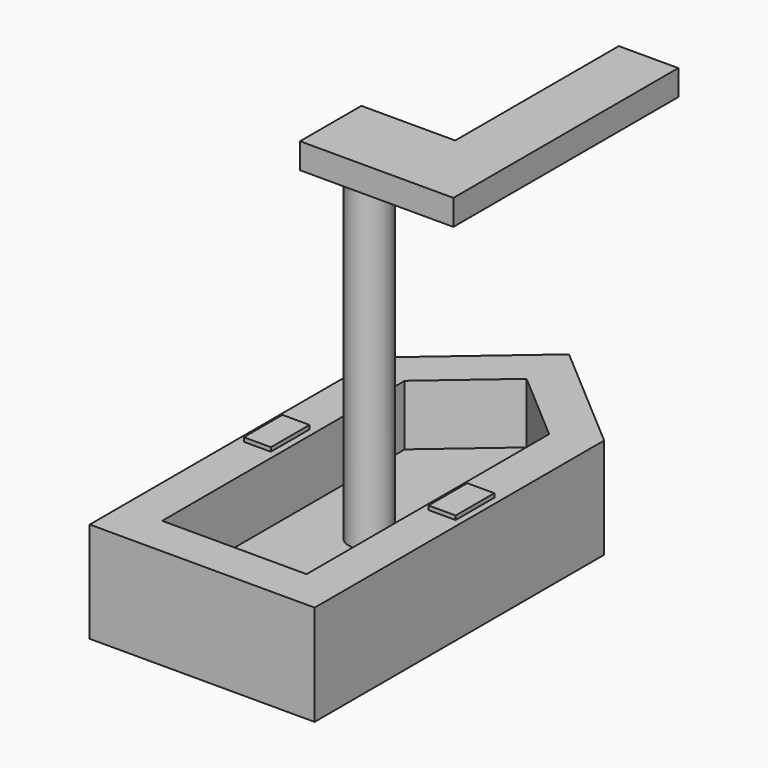
from build123d import *

# Parameters (mm, degrees)
F0_W      = 55.88
F0_H      = 76.2
F0_H_2    = 13.7203991207
F1_DEPTH  = 12.5
F2_T      = -10
F3_R      = 5
F4_DEPTH  = 81.28
F5_W      = 6.731
F5_H      = 12
F6_DEPTH  = 1
F7_W      = 19.05
F7_H      = 19.05
F8_DEPTH  = 6.35
F9_W      = 19.05
F9_H      = 6.3499984837
F10_DEPTH = 19.05
F11_W     = 14.7812826264
F11_H     = 6.35
F12_DEPTH = 50.8


with BuildPart() as f1:
    # F0 (on Top) → F1 (new body, symmetric)
    with BuildSketch(Plane.XY):
        Polygon((0, 62.1132660843), (-27.94, 38.1), (27.94, 38.1), align=None)
        Rectangle(F0_W, F0_H)
        with Locations((0, -44.9601995604)):
            Rectangle(F0_W, F0_H_2)
    extrude(amount=F1_DEPTH, both=True)

    # F2
    f2_openings = [f1.faces().sort_by_distance(p)[0] for p in [
        (0, -0.62116, 12.5),
    ]]
    offset(amount=F2_T, openings=f2_openings)

    # F3 (on face) → F4 (join)
    with BuildSketch(Plane.XY.offset(-2.5)):
        Circle(F3_R)
    extrude(amount=F4_DEPTH)

    # F5 (on face) → F6 (join)
    with BuildSketch(Plane.XY.offset(12.5)):
        with Locations((-22.9565, 0)):
            Rectangle(F5_W, F5_H)
        with Locations((22.9565, 0)):
            Rectangle(F5_W, F5_H)
    extrude(amount=F6_DEPTH)

    # F7 (on face) → F8 (join)
    with BuildSketch(Plane.XY.offset(78.78)):
        Rectangle(F7_W, F7_H)
    extrude(amount=F8_DEPTH)

    # F9 (on face) → F10 (join)
    with BuildSketch(Plane.YZ.offset(9.525)):
        with Locations((0, 81.9550007582)):
            Rectangle(F9_W, F9_H)
    extrude(amount=F10_DEPTH)

    # F11 (on face) → F12 (join)
    with BuildSketch(Plane(origin=(0, 9.525, 0), x_dir=(-1, 0, 0), z_dir=(0, 1, 0))):
        with Locations((-21.1843586868, 81.955)):
            Rectangle(F11_W, F11_H)
    extrude(amount=F12_DEPTH)


solid = f1.part
